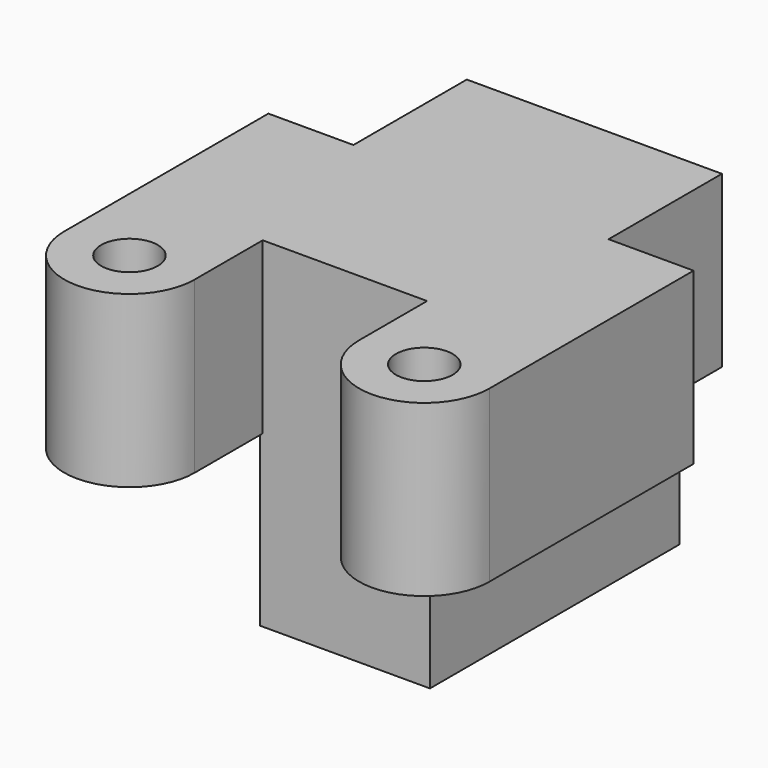
from build123d import *

# Parameters (mm, degrees)
F1_DEPTH = 55
F2_W     = 15
F2_H     = 25
F3_DEPTH = 62
F4_R     = 5
F5_DEPTH = 30


with BuildPart() as f1:
    # F0 (on Front) → F1 (new body)
    with BuildSketch(Plane.XZ):
        Polygon((37.5, 30), (0, 30), (-37.5, 30), (-37.5, 0), (-15, 0), (-15, -30), (0, -30), (15, -30), (15, 0), (37.5, 0), align=None)
    extrude(amount=-F1_DEPTH)

    # F2 (on face) → F3 (cut)
    with BuildSketch(Plane.XY.offset(30)):
        with Locations((30, 42.5)):
            Rectangle(F2_W, F2_H)
        with Locations((-30, 42.5)):
            Rectangle(F2_W, F2_H)
    extrude(amount=-F3_DEPTH, mode=Mode.SUBTRACT)

    # F4 (on face) → F5 (join)
    with BuildSketch(Plane.XY.offset(30)):
        with BuildLine():
            Line((-37.5, 0), (-37.5, -15))
            ThreePointArc((-37.5, -15), (-26, -26.5), (-14.5, -15))
            Line((-14.5, -15), (-14.5, 0))
            Line((-14.5, 0), (-37.5, 0))
        make_face()
        with Locations((-26, -15)):
            Circle(F4_R, mode=Mode.SUBTRACT)
        with BuildLine():
            Line((37.5, 0), (14.5, 0))
            Line((14.5, 0), (14.5, -15))
            ThreePointArc((14.5, -15), (26, -26.5), (37.5, -15))
            Line((37.5, -15), (37.5, 0))
        make_face()
        with Locations((26, -15)):
            Circle(F4_R, mode=Mode.SUBTRACT)
    extrude(amount=-F5_DEPTH)


solid = f1.part
